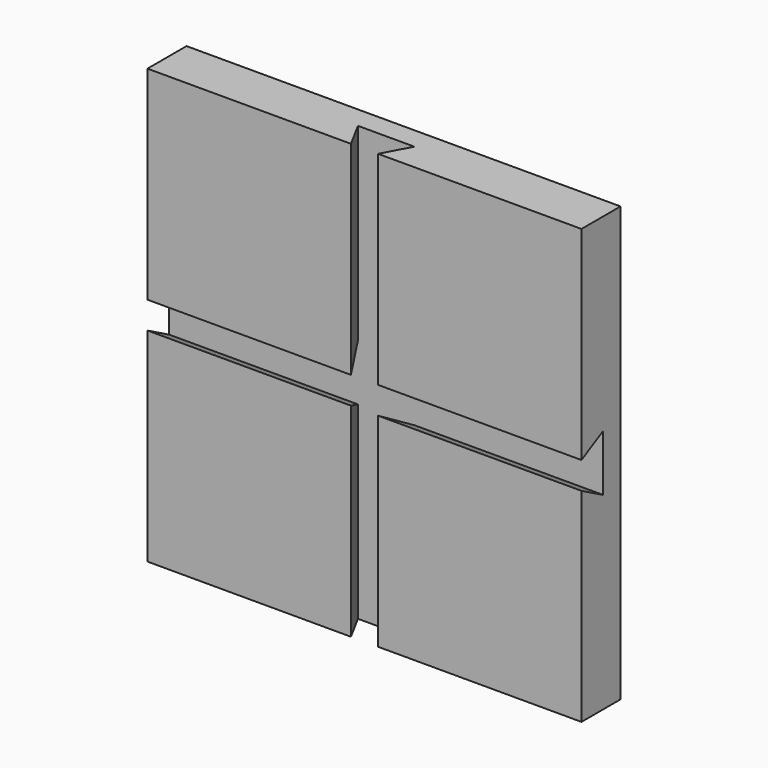
from build123d import *

# Parameters (mm, degrees)
F0_W     = 6.35
F0_H     = 6.35
F3_DEPTH = 11.43
F4_DEPTH = 50.8
F5_DEPTH = 50.8


with BuildPart() as f3:
    # F0 (on Front) → F3 (new body)
    with BuildSketch(Plane.XZ):
        with BuildLine():
            ThreePointArc((50.700684167, 3.175), (50.7751649711, 1.5882764743), (50.8, 0))
            Line((50.8, 0), (50.8, 3.175))
            Line((50.8, 3.175), (50.700684167, 3.175))
        make_face()
        with BuildLine():
            ThreePointArc((-1.86e-08, 50.8), (1.588276465, 50.7751649714), (3.175, 50.700684167))
            Line((3.175, 50.700684167), (3.175, 50.8))
            Line((3.175, 50.8), (-1.86e-08, 50.8))
        make_face()
        with BuildLine():
            ThreePointArc((-3.175, 50.700684167), (-1.5882764835, 50.7751649708), (-1.86e-08, 50.8))
            Line((-1.86e-08, 50.8), (-3.175, 50.8))
            Line((-3.175, 50.8), (-3.175, 50.700684167))
        make_face()
        with BuildLine():
            ThreePointArc((-50.8, -4.94e-08), (-50.7751649719, 1.5882764495), (-50.700684167, 3.175))
            Line((-50.700684167, 3.175), (-50.8, 3.175))
            Line((-50.8, 3.175), (-50.8, -4.94e-08))
        make_face()
        with BuildLine():
            Line((-50.8, -3.175), (-50.700684167, -3.175))
            ThreePointArc((-50.700684167, -3.175), (-50.7751649703, -1.588276499), (-50.8, -4.94e-08))
            Line((-50.8, -4.94e-08), (-50.8, -3.175))
        make_face()
        with BuildLine():
            Line((-3.175, -50.8), (-5.98e-08, -50.8))
            ThreePointArc((-5.98e-08, -50.8), (-1.5882765041, -50.7751649702), (-3.175, -50.700684167))
            Line((-3.175, -50.700684167), (-3.175, -50.8))
        make_face()
        with BuildLine():
            Line((3.175, -50.8), (3.175, -50.700684167))
            ThreePointArc((3.175, -50.700684167), (1.5882764444, -50.775164972), (-5.98e-08, -50.8))
            Line((-5.98e-08, -50.8), (3.175, -50.8))
        make_face()
        with BuildLine():
            Line((50.8, -3.175), (50.8, 0))
            ThreePointArc((50.8, 0), (50.7751649711, -1.5882764743), (50.700684167, -3.175))
            Line((50.700684167, -3.175), (50.8, -3.175))
        make_face()
        with BuildLine():
            ThreePointArc((3.175, 50.700684167), (35.9210244843, 35.9210244843), (50.700684167, 3.175))
            Line((50.700684167, 3.175), (50.8, 3.175))
            Line((50.8, 3.175), (50.8, 50.8))
            Line((50.8, 50.8), (3.175, 50.8))
            Line((3.175, 50.8), (3.175, 50.700684167))
        make_face()
        with BuildLine():
            ThreePointArc((-50.700684167, 3.175), (-35.9210244843, 35.9210244843), (-3.175, 50.700684167))
            Line((-3.175, 50.700684167), (-3.175, 50.8))
            Line((-3.175, 50.8), (-50.8, 50.8))
            Line((-50.8, 50.8), (-50.8, 3.175))
            Line((-50.8, 3.175), (-50.700684167, 3.175))
        make_face()
        with BuildLine():
            Line((-3.175, -50.8), (-3.175, -50.700684167))
            ThreePointArc((-3.175, -50.700684167), (-35.9210244843, -35.9210244843), (-50.700684167, -3.175))
            Line((-50.700684167, -3.175), (-50.8, -3.175))
            Line((-50.8, -3.175), (-50.8, -50.8))
            Line((-50.8, -50.8), (-3.175, -50.8))
        make_face()
        with BuildLine():
            Line((50.8, -3.175), (50.700684167, -3.175))
            ThreePointArc((50.700684167, -3.175), (35.9210244843, -35.9210244843), (3.175, -50.700684167))
            Line((3.175, -50.700684167), (3.175, -50.8))
            Line((3.175, -50.8), (50.8, -50.8))
            Line((50.8, -50.8), (50.8, -3.175))
        make_face()
        with BuildLine():
            ThreePointArc((50.700684167, -3.175), (50.7751649711, -1.5882764743), (50.8, 0))
            ThreePointArc((50.8, 0), (50.7751649711, 1.5882764743), (50.700684167, 3.175))
            Line((50.700684167, 3.175), (3.175, 3.175))
            Line((3.175, 3.175), (3.175, -3.175))
            Line((3.175, -3.175), (50.700684167, -3.175))
        make_face()
        with BuildLine():
            Line((3.175, 3.175), (3.175, 50.700684167))
            ThreePointArc((3.175, 50.700684167), (1.588276465, 50.7751649714), (-1.86e-08, 50.8))
            ThreePointArc((-1.86e-08, 50.8), (-1.5882764835, 50.7751649708), (-3.175, 50.700684167))
            Line((-3.175, 50.700684167), (-3.175, 3.175))
            Line((-3.175, 3.175), (3.175, 3.175))
        make_face()
        with BuildLine():
            Line((-3.175, -3.175), (-3.175, 3.175))
            Line((-3.175, 3.175), (-50.700684167, 3.175))
            ThreePointArc((-50.700684167, 3.175), (-50.7751649719, 1.5882764495), (-50.8, -4.94e-08))
            ThreePointArc((-50.8, -4.94e-08), (-50.7751649703, -1.588276499), (-50.700684167, -3.175))
            Line((-50.700684167, -3.175), (-3.175, -3.175))
        make_face()
        with BuildLine():
            ThreePointArc((-5.98e-08, -50.8), (1.5882764444, -50.775164972), (3.175, -50.700684167))
            Line((3.175, -50.700684167), (3.175, -3.175))
            Line((3.175, -3.175), (-3.175, -3.175))
            Line((-3.175, -3.175), (-3.175, -50.700684167))
            ThreePointArc((-3.175, -50.700684167), (-1.5882765041, -50.7751649702), (-5.98e-08, -50.8))
        make_face()
        with BuildLine():
            Line((3.175, 3.175), (50.700684167, 3.175))
            ThreePointArc((50.700684167, 3.175), (35.9210244843, 35.9210244843), (3.175, 50.700684167))
            Line((3.175, 50.700684167), (3.175, 3.175))
        make_face()
        with BuildLine():
            Line((-50.700684167, 3.175), (-3.175, 3.175))
            Line((-3.175, 3.175), (-3.175, 50.700684167))
            ThreePointArc((-3.175, 50.700684167), (-35.9210244843, 35.9210244843), (-50.700684167, 3.175))
        make_face()
        with BuildLine():
            ThreePointArc((3.175, -50.700684167), (35.9210244843, -35.9210244843), (50.700684167, -3.175))
            Line((50.700684167, -3.175), (3.175, -3.175))
            Line((3.175, -3.175), (3.175, -50.700684167))
        make_face()
        with BuildLine():
            Line((-3.175, -50.700684167), (-3.175, -3.175))
            Line((-3.175, -3.175), (-50.700684167, -3.175))
            ThreePointArc((-50.700684167, -3.175), (-35.9210244843, -35.9210244843), (-3.175, -50.700684167))
        make_face()
        Rectangle(F0_W, F0_H)
    extrude(amount=-F3_DEPTH)

    # F1 (on Right) → F4 (cut, symmetric)
    with BuildSketch(Plane.YZ):
        Polygon((6.35, 6.604), (0, 3.175), (0, -3.175), (6.35, -6.604), (6.35, 0), align=None)
    extrude(amount=F4_DEPTH, both=True, mode=Mode.SUBTRACT)

    # F2 (on Top) → F5 (cut, symmetric)
    with BuildSketch(Plane.XY):
        Polygon((-6.604, 6.35), (-3.175, 0), (3.175, 0), (6.604, 6.35), (0, 6.35), align=None)
    extrude(amount=F5_DEPTH, both=True, mode=Mode.SUBTRACT)


solid = f3.part
